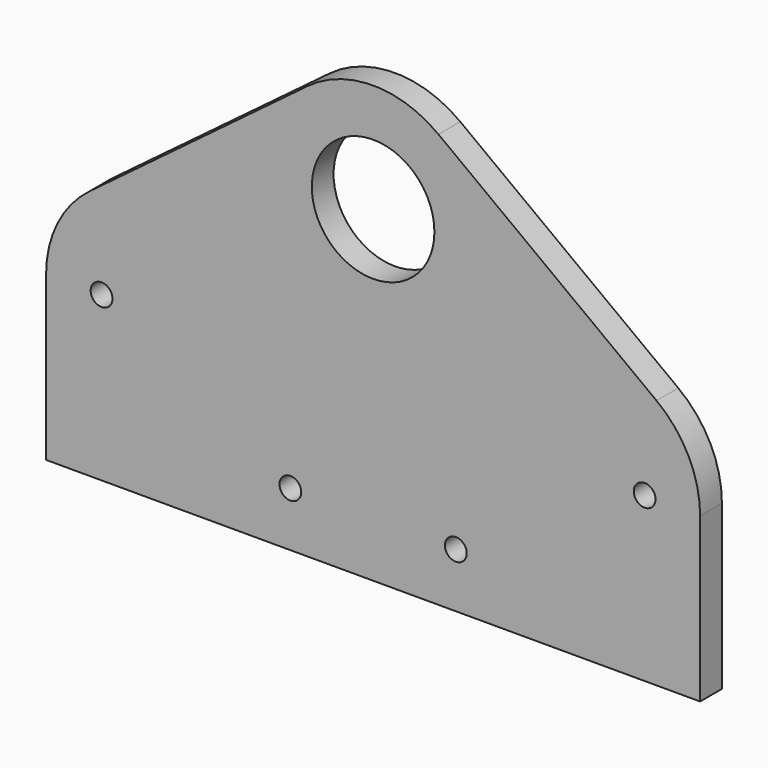
from build123d import *

# Parameters (mm, degrees)
F0_R     = 14.2875
F1_DEPTH = 6.35
F2_R     = 2.54
F3_DEPTH = 6.351


with BuildPart() as f1:
    # F0 (on Front) → F1 (new body)
    with BuildSketch(Plane.XZ):
        with BuildLine():
            Line((0, 38.1), (0, 0))
            Line((0, 0), (152.4, 0))
            Line((152.4, 0), (152.4, 38.1))
            ThreePointArc((152.4, 38.1), (149.718451, 49.459225), (142.24, 58.42))
            Line((142.24, 58.42), (91.44, 96.52))
            ThreePointArc((91.44, 96.52), (76.2, 101.6), (60.96, 96.52))
            Line((60.96, 96.52), (10.16, 58.42))
            ThreePointArc((10.16, 58.42), (2.681549, 49.459225), (0, 38.1))
        make_face()
        with Locations((76.2, 76.2)):
            Circle(F0_R, mode=Mode.SUBTRACT)
    extrude(amount=F1_DEPTH)

    # F2 (on face) → F3 (cut, through all)
    with BuildSketch(Plane.XZ.offset(6.35)):
        with Locations((12.927955, 38.1)):
            Circle(F2_R)
        with Locations((56.922045, 12.7)):
            Circle(F2_R)
        with Locations((95.477955, 12.7)):
            Circle(F2_R)
        with Locations((139.472045, 38.1)):
            Circle(F2_R)
    extrude(amount=-F3_DEPTH, mode=Mode.SUBTRACT)


solid = f1.part
